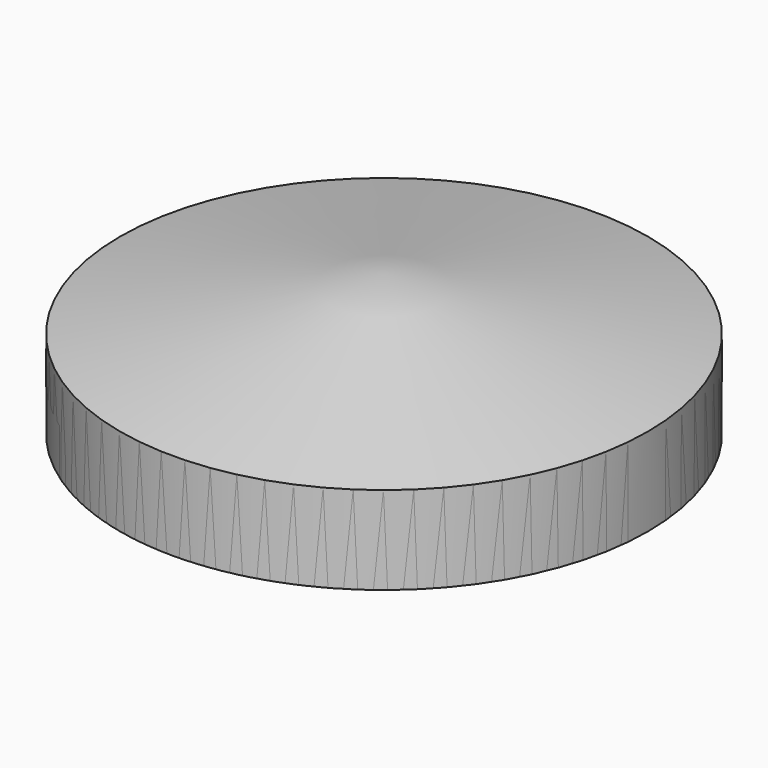
from build123d import *

# Parameters (mm, degrees)
SKETCH001_R           = 1.95
POCKET_DEPTH          = 4.5
POLARPATTERN_COUNT    = 3
POLARPATTERN001_COUNT = 2
SKETCH002_R           = 2
POCKET001_DEPTH       = 2.8
POCKET002_DEPTH       = 2.6


with BuildPart() as pocket_body:
    # Sketch → Revolution (revolve)
    with BuildSketch(Plane.XZ):
        Polygon((0, 0), (15, 0), (15, 5), (0, 8), align=None)
    revolve(axis=Axis((0, 0, 0), (0, 0, 1)))

    # Sketch001 → Pocket (cut)
    with BuildSketch(Plane(origin=(0, 0, 0), x_dir=(1, 0, 0), z_dir=(0, 0, -1))):
        with Locations((0, 10)):
            Circle(SKETCH001_R)
    pocket = extrude(amount=-POCKET_DEPTH, mode=Mode.SUBTRACT)


with BuildPart() as polarpattern:
    # PolarPattern base: copy of Pocket body
    add(pocket_body.part)

    # PolarPattern: Pocket ×3 about axis
    polarpattern_axis = Axis((0, 0, 0), (0, 0, -1))
    for i in range(1, POLARPATTERN_COUNT):
        add(pocket.rotate(polarpattern_axis, i * 360 / POLARPATTERN_COUNT), mode=Mode.SUBTRACT)


with BuildPart() as pocket002:
    # PolarPattern001 base: copy of Pocket body
    add(pocket_body.part)

    # PolarPattern001: Pocket ×2 about axis
    polarpattern001_axis = Axis((0, 0, 0), (0, 0, -1))
    for i in range(1, POLARPATTERN001_COUNT):
        add(pocket.rotate(polarpattern001_axis, i * 360 / POLARPATTERN001_COUNT), mode=Mode.SUBTRACT)

    # Sketch002 → Pocket001 (cut)
    with BuildSketch(Plane(origin=(0, 0, 0), x_dir=(1, 0, 0), z_dir=(0, 0, -1))):
        Circle(SKETCH002_R)
    extrude(amount=-POCKET001_DEPTH, mode=Mode.SUBTRACT)

    # Sketch003 → Pocket002 (cut)
    with BuildSketch(Plane(origin=(0, 0, 0), x_dir=(1, 0, 0), z_dir=(0, 0, -1))):
        Polygon((-8.7681240867, 12.4450793489), (12.4450793489, -8.7681240867), (8.7681240867, -12.4450793489), (-12.4450793489, 8.7681240867), align=None)
    extrude(amount=-POCKET002_DEPTH, mode=Mode.SUBTRACT)


solid = Compound([polarpattern.part, pocket002.part])
